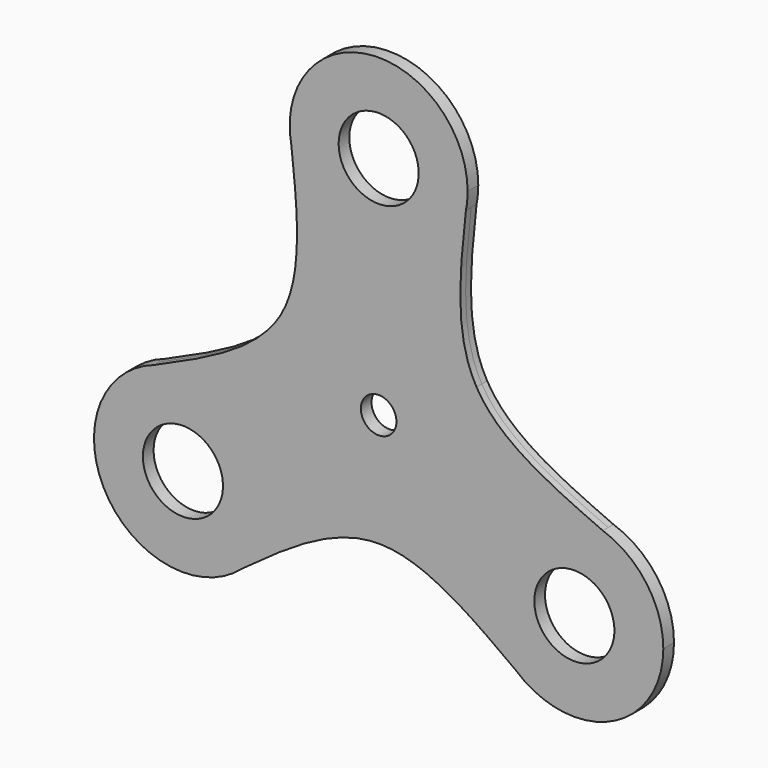
from build123d import *

# Parameters (mm, degrees)
F1_DEPTH = 4.7625
F3_D     = 57.15
F4_D     = 25.4


with BuildPart() as f1:
    # F0 (on Front) → F1 (new body, symmetric)
    with BuildSketch(Plane.XZ):
        with BuildLine():
            ThreePointArc((63.5, 161.311665), (-6.276947, 224.500667), (-62.259053, 148.819256))
            ThreePointArc((-62.259053, 148.819256), (0, 161.317577), (62.259053, 148.819256))
            ThreePointArc((62.259053, 148.819256), (63.189002, 155.034718), (63.5, 161.311665))
        make_face()
        with BuildLine():
            ThreePointArc((-62.259053, 148.819256), (-51.584807, 124.281169), (-31.75, 106.319052))
            Line((-31.75, 106.319052), (0, 161.311665))
            Line((0, 161.311665), (31.75, 106.319052))
            ThreePointArc((31.75, 106.319052), (51.584807, 124.281169), (62.259053, 148.819256))
            ThreePointArc((62.259053, 148.819256), (0, 161.317577), (-62.259053, 148.819256))
        make_face()
        with BuildLine():
            ThreePointArc((-107.95, -25.663219), (-84.707387, -48.905833), (-76.2, -80.655833))
            Line((-76.2, -80.655833), (0, -80.655833))
            Line((0, -80.655833), (76.2, -80.655833))
            ThreePointArc((76.2, -80.655833), (84.707387, -48.905833), (107.95, -25.663219))
            Line((107.95, -25.663219), (69.849998, 40.327919))
            Line((69.849998, 40.327919), (31.75, 106.319052))
            ThreePointArc((31.75, 106.319052), (0, 97.811665), (-31.75, 106.319052))
            Line((-31.75, 106.319052), (-69.849998, 40.327919))
            Line((-69.849998, 40.327919), (-107.95, -25.663219))
        make_face()
        with BuildLine():
            Line((69.849998, 40.327919), (107.95, -25.663219))
            ThreePointArc((107.95, -25.663219), (133.423053, -17.466831), (160.010782, -20.491706))
            add(Edge.make_bspline(
                [(69.849998, 40.327919), (69.849999, 40.327918), (86.141954, 12.109423), (123.076369, -4.191142), (160.010782, -20.491706)],
                knots=[108.756574, 108.756574, 108.756574, 108.756574, 108.756578, 217.513155, 217.513155, 217.513155, 217.513155], degree=3))
        make_face()
        with BuildLine():
            ThreePointArc((-160.010782, -20.491706), (-133.423053, -17.466831), (-107.95, -25.663219))
            Line((-107.95, -25.663219), (-69.849998, 40.327919))
            add(Edge.make_bspline(
                [(-160.010782, -20.491706), (-123.076369, -4.191142), (-86.141954, 12.109423), (-69.849999, 40.327918), (-69.849998, 40.327919)],
                knots=[0, 0, 0, 0, 108.756578, 108.756581, 108.756581, 108.756581, 108.756581], degree=3))
        make_face()
        with BuildLine():
            Line((0, 161.311665), (-31.75, 106.319052))
            ThreePointArc((-31.75, 106.319052), (0, 97.811665), (31.75, 106.319052))
            Line((31.75, 106.319052), (0, 161.311665))
        make_face()
        with BuildLine():
            ThreePointArc((160.010782, -20.491706), (139.705119, -80.658788), (97.751729, -128.327549))
            ThreePointArc((97.751729, -128.327549), (165.858505, -138.517587), (203.2, -80.655833))
            ThreePointArc((203.2, -80.655833), (191.284807, -43.625336), (160.010782, -20.491706))
        make_face()
        with BuildLine():
            ThreePointArc((107.95, -25.663219), (84.707387, -48.905833), (76.2, -80.655833))
            Line((76.2, -80.655833), (139.7, -80.655833))
            Line((139.7, -80.655833), (107.95, -25.663219))
        make_face()
        with BuildLine():
            Line((139.7, -80.655833), (76.2, -80.655833))
            ThreePointArc((76.2, -80.655833), (81.838246, -106.814338), (97.751729, -128.327549))
            ThreePointArc((97.751729, -128.327549), (139.705119, -80.658788), (160.010782, -20.491706))
            ThreePointArc((160.010782, -20.491706), (133.423053, -17.466831), (107.95, -25.663219))
            Line((107.95, -25.663219), (139.7, -80.655833))
        make_face()
        with BuildLine():
            Line((31.75, 106.319052), (69.849998, 40.327919))
            add(Edge.make_bspline(
                [(62.259053, 148.819256), (57.908549, 108.682834), (53.558045, 68.546413), (69.849998, 40.327919)],
                knots=[0, 0, 0, 0, 108.756574, 108.756574, 108.756574, 108.756574], degree=3))
            ThreePointArc((62.259053, 148.819256), (51.584807, 124.281169), (31.75, 106.319052))
        make_face()
        with BuildLine():
            Line((0, -80.655833), (-76.2, -80.655833))
            ThreePointArc((-76.2, -80.655833), (-81.838246, -106.814338), (-97.751729, -128.327549))
            add(Edge.make_bspline(
                [(-97.751729, -128.327549), (-65.16782, -104.491691), (-32.58391, -80.655833), (0, -80.655833)],
                knots=[0, 0, 0, 0, 108.756578, 108.756578, 108.756578, 108.756578], degree=3))
        make_face()
        with BuildLine():
            Line((76.2, -80.655833), (0, -80.655833))
            add(Edge.make_bspline(
                [(0, -80.655833), (32.58391, -80.655833), (65.16782, -104.491691), (97.751729, -128.327549)],
                knots=[108.756578, 108.756578, 108.756578, 108.756578, 217.513155, 217.513155, 217.513155, 217.513155], degree=3))
            ThreePointArc((97.751729, -128.327549), (81.838246, -106.814338), (76.2, -80.655833))
        make_face()
        with BuildLine():
            ThreePointArc((-97.751729, -128.327549), (-81.838246, -106.814338), (-76.2, -80.655833))
            Line((-76.2, -80.655833), (-139.7, -80.655833))
            Line((-139.7, -80.655833), (-107.95, -25.663219))
            ThreePointArc((-107.95, -25.663219), (-133.423053, -17.466831), (-160.010782, -20.491706))
            ThreePointArc((-160.010782, -20.491706), (-139.705119, -80.658788), (-97.751729, -128.327549))
        make_face()
        with BuildLine():
            Line((-139.7, -80.655833), (-76.2, -80.655833))
            ThreePointArc((-76.2, -80.655833), (-84.707387, -48.905833), (-107.95, -25.663219))
            Line((-107.95, -25.663219), (-139.7, -80.655833))
        make_face()
        with BuildLine():
            ThreePointArc((-160.010782, -20.491706), (-194.692613, -112.405833), (-97.751729, -128.327549))
            ThreePointArc((-97.751729, -128.327549), (-139.705119, -80.658788), (-160.010782, -20.491706))
        make_face()
        with BuildLine():
            add(Edge.make_bspline(
                [(-69.849998, 40.327919), (-53.558045, 68.546413), (-57.908549, 108.682834), (-62.259053, 148.819256)],
                knots=[108.756581, 108.756581, 108.756581, 108.756581, 217.513155, 217.513155, 217.513155, 217.513155], degree=3))
            Line((-69.849998, 40.327919), (-31.75, 106.319052))
            ThreePointArc((-31.75, 106.319052), (-51.584807, 124.281169), (-62.259053, 148.819256))
        make_face()
    extrude(amount=F1_DEPTH, both=True)

    # F3 (through all)
    with Locations(Plane.XZ.offset(4.7625)):
        with Locations((-139.7, -80.655833), (139.7, -80.655833), (0, 161.311665)):
            Hole(F3_D / 2)

    # F4 (through all)
    with Locations(Plane.XZ.offset(4.7625)):
        with Locations((0, 0)):
            Hole(F4_D / 2)


solid = f1.part
